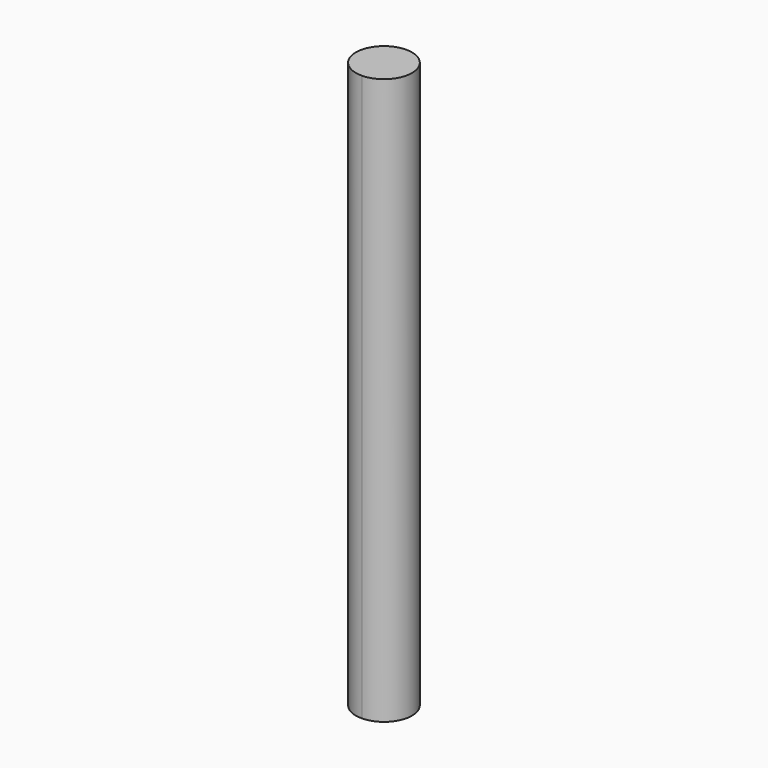
from build123d import *

# Parameters (mm, degrees)
F1_DEPTH = 150


with BuildPart() as f1:
    # F0 (on Top) → F1 (new body)
    with BuildSketch(Plane.XY):
        with BuildLine():
            ThreePointArc((0, 14.851045), (-7.537133, 7.425522), (0, 0))
            ThreePointArc((0, 0), (7.32389, 7.425522), (0, 14.851045))
        make_face()
    extrude(amount=F1_DEPTH)


solid = f1.part
